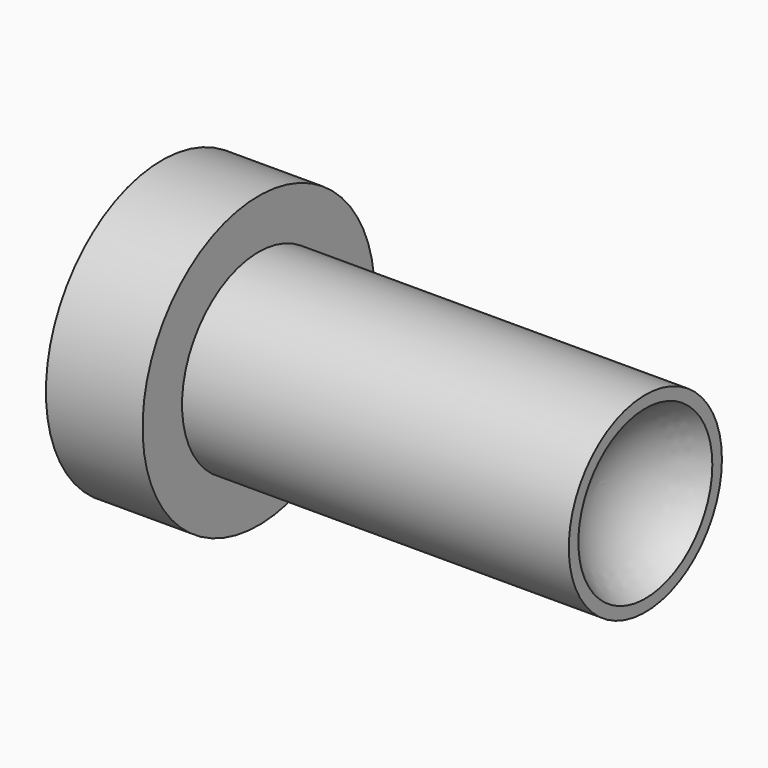
from build123d import *


with BuildPart() as f1:
    # F0 (on Top) → F1 (revolve)
    with BuildSketch(Plane.XY):
        with BuildLine():
            Line((-1.130771, 0.75), (-1.130771, 0))
            Line((-1.130771, 0), (1.119229, 0))
            ThreePointArc((1.119229, 0), (1.186216, 0.25), (1.369229, 0.433013))
            Line((1.369229, 0.433013), (1.369229, 0.495))
            Line((1.369229, 0.495), (-0.630771, 0.495))
            Line((-0.630771, 0.495), (-0.630771, 0.75))
            Line((-0.630771, 0.75), (-1.130771, 0.75))
        make_face()
    revolve(axis=Axis((0.239084, 0, 0), (1, 0, 0)))


solid = f1.part
